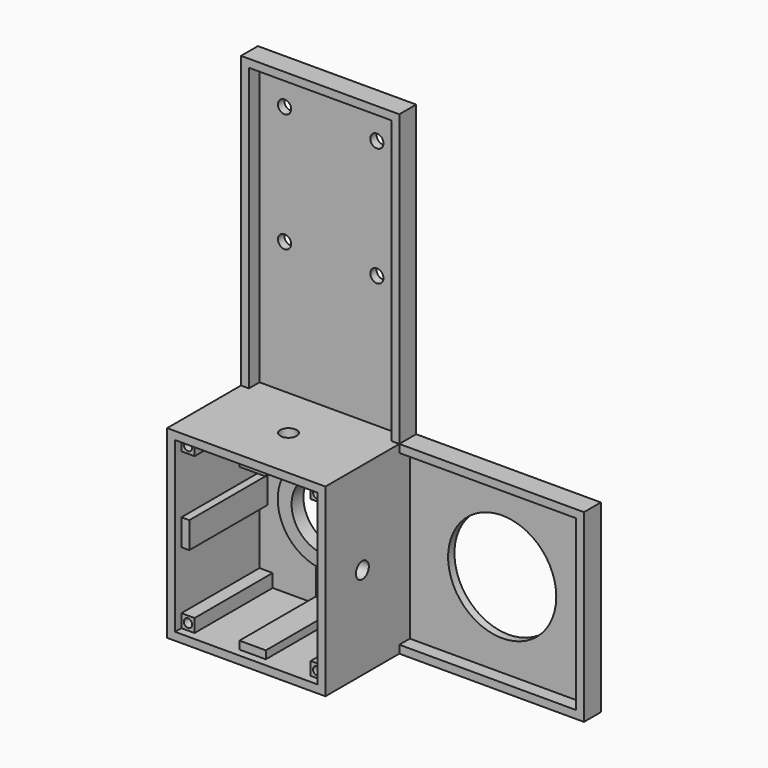
from build123d import *

# Parameters (mm, degrees)
F0_W      = 60
F0_H      = 180
F0_R      = 12.75
F0_R_2    = 2.5
F1_DEPTH  = 3
F2_R      = 18
F2_R_2    = 12.75
F3_DEPTH  = 2.6
F4_W      = 60
F4_H      = 70
F4_W_2    = 54
F4_H_2    = 64
F5_DEPTH  = 40
F6_W      = 5
F6_H      = 5
F6_W_2    = 10
F6_H_2    = 3
F6_W_3    = 3
F6_H_3    = 10
F7_DEPTH  = 37
F8_R      = 1.6
F9_DEPTH  = 28
F10_W     = 3
F10_H     = 70
F11_DEPTH = 70
F13_R     = 20.5
F14_DEPTH = 3
F16_DEPTH = 5
F17_R     = 3.075
F18_DEPTH = 6
F19_R     = 3.1
F20_DEPTH = 6
F22_DEPTH = 5


with BuildPart() as f1:
    # F0 (on Front) → F1 (new body)
    with BuildSketch(Plane.XZ):
        Rectangle(F0_W, F0_H)
        with Locations((0, -55)):
            Circle(F0_R, mode=Mode.SUBTRACT)
        with Locations((-17.5, 30)):
            Circle(F0_R_2, mode=Mode.SUBTRACT)
        with Locations((-17.5, 75)):
            Circle(F0_R_2, mode=Mode.SUBTRACT)
        with Locations((17.5, 30)):
            Circle(F0_R_2, mode=Mode.SUBTRACT)
        with Locations((17.5, 75)):
            Circle(F0_R_2, mode=Mode.SUBTRACT)
    extrude(amount=-F1_DEPTH)

    # F2 (on face) → F3 (join)
    with BuildSketch(Plane.XZ):
        with Locations((0, -55)):
            Circle(F2_R)
        with Locations((0, -55)):
            Circle(F2_R_2, mode=Mode.SUBTRACT)
    extrude(amount=F3_DEPTH)

    # F4 (on face) → F5 (join)
    with BuildSketch(Plane.XZ):
        with Locations((0, -55)):
            Rectangle(F4_W, F4_H)
        with Locations((0, -55)):
            Rectangle(F4_W_2, F4_H_2, mode=Mode.SUBTRACT)
    extrude(amount=F5_DEPTH)

    # F6 (on face) → F7 (join)
    with BuildSketch(Plane.XZ):
        with Locations((-24.5, -25.5)):
            Rectangle(F6_W, F6_H)
        with Locations((0, -24.5)):
            Rectangle(F6_W_2, F6_H_2)
        with Locations((24.5, -25.5)):
            Rectangle(F6_W, F6_H)
        with Locations((25.5, -55)):
            Rectangle(F6_W_3, F6_H_3)
        with Locations((-25.5, -55)):
            Rectangle(F6_W_3, F6_H_3)
        with Locations((24.5, -84.5)):
            Rectangle(F6_W, F6_H)
        with Locations((0, -85.5)):
            Rectangle(F6_W_2, F6_H_2)
        with Locations((-24.5, -84.5)):
            Rectangle(F6_W, F6_H)
    extrude(amount=F7_DEPTH)

    # F8 (on face) → F9 (cut)
    with BuildSketch(Plane.XZ.offset(37)):
        with Locations((24.5, -25.5)):
            Circle(F8_R)
        with Locations((-24.5, -25.5)):
            Circle(F8_R)
        with Locations((24.5, -84.5)):
            Circle(F8_R)
        with Locations((-24.5, -84.5)):
            Circle(F8_R)
    extrude(amount=-F9_DEPTH, mode=Mode.SUBTRACT)

    # F10 (on face) → F11 (join)
    with BuildSketch(Plane.YZ.offset(30)):
        with Locations((1.5, -55)):
            Rectangle(F10_W, F10_H)
    extrude(amount=F11_DEPTH)

    # F13 (on face) → F14 (cut, through all)
    with BuildSketch(Plane.XZ):
        with Locations((65, -55)):
            Circle(F13_R)
    extrude(amount=-F14_DEPTH, mode=Mode.SUBTRACT)

    # F15 (on face) → F16 (join)
    with BuildSketch(Plane.XZ):
        Polygon((100, -20), (30, -20), (30, -23), (97, -23), (97, -87), (30, -87), (30, -90), (100, -90), (100, -87), (100, -23), align=None)
    extrude(amount=F16_DEPTH)

    # F17 (on face) → F18 (cut, through all)
    with BuildSketch(Plane.YZ.offset(30)):
        with Locations((-22.5, -55)):
            Circle(F17_R)
    extrude(amount=-F18_DEPTH, mode=Mode.SUBTRACT)

    # F19 (on face) → F20 (cut, through all)
    with BuildSketch(Plane.XY.offset(-20)):
        with Locations((0, -20)):
            Circle(F19_R)
    extrude(amount=-F20_DEPTH, mode=Mode.SUBTRACT)

    # F21 (on face) → F22 (join)
    with BuildSketch(Plane.XZ):
        Polygon((30, -20), (30, 90), (27, 90), (21.684641, 90), (-27, 90), (-30, 90), (-30, -20), (-27, -20), (-27, 87), (27, 87), (27, -20), align=None)
    extrude(amount=F22_DEPTH)


solid = f1.part
